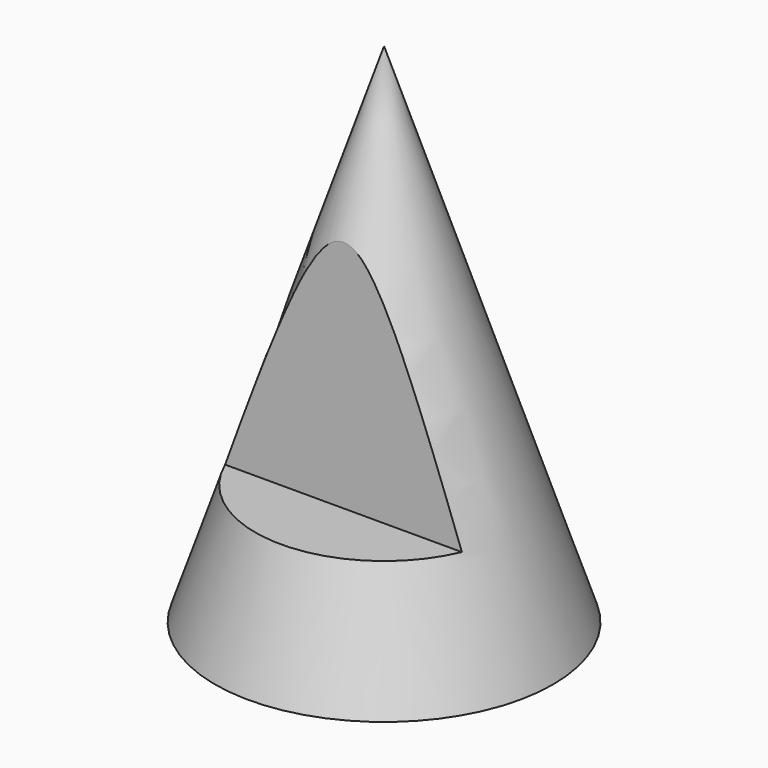
from build123d import *

# Parameters (mm, degrees)
F3_START = 15
F2_W     = 112.5575900078
F2_H     = 77.2136547603
F3_DEPTH = 35.001


with BuildPart() as f1:
    # F0 (on Front) → F1 (revolve)
    with BuildSketch(Plane.XZ):
        Polygon((50, 0), (0, 150), (0, 0), align=None)
    revolve(axis=Axis((0, 0, 29.4279232289), (0, 0, -1)))

    # F2 (on Front) → F3 (cut)
    with BuildSketch(Plane.XZ.offset(F3_START)):
        with Locations((-3.0265338719, 74.3169027846)):
            Rectangle(F2_W, F2_H)
    extrude(amount=F3_DEPTH, mode=Mode.SUBTRACT)


solid = f1.part
